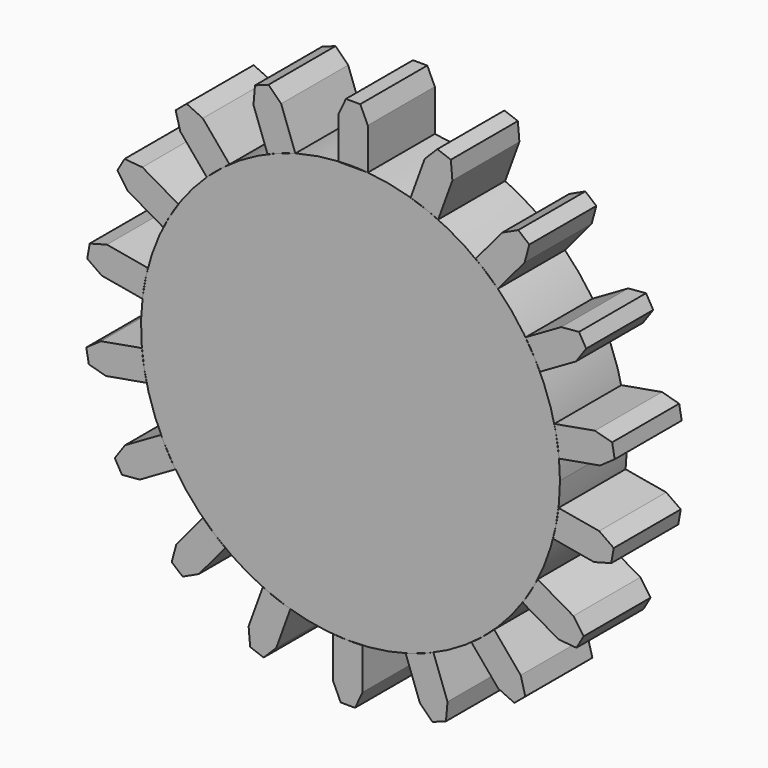
from build123d import *

# Parameters (mm, degrees)
F1_DEPTH = 25.4
F2_SIZE2 = 4.9023428203
F2_SIZE  = 2.286
F3_COUNT = 20
F3_ANGLE = 380


with BuildPart() as f1:
    # F0 (on Front) → F1 (new body)
    with BuildSketch(Plane.XZ):
        with BuildLine():
            ThreePointArc((-3.6768931895, 63.393457521), (-43.581918742, -46.1829661105), (63.5, 0))
            ThreePointArc((63.5, 0), (46.7183838557, 43.0074715591), (5.2435398453, 63.2831359044))
            Line((5.2435398453, 63.2831359044), (-3.6768931895, 63.2831359044))
            Line((-3.6768931895, 63.2831359044), (-3.6768931895, 63.393457521))
        make_face()
    extrude(amount=F1_DEPTH)


with BuildPart() as f1b:
    # F0 (on Front) → F1, piece 2 (new body)
    with BuildSketch(Plane.XZ):
        with BuildLine():
            ThreePointArc((-3.6768931895, 63.393457521), (0.7852631093, 63.4951443958), (5.2435398453, 63.2831359044))
            Line((5.2435398453, 63.2831359044), (5.2435398453, 80.795571208))
            Line((5.2435398453, 80.795571208), (-3.6768931895, 80.795571208))
            Line((-3.6768931895, 80.795571208), (-3.6768931895, 63.393457521))
        make_face()
    extrude(amount=F1_DEPTH)

    # F2
    f2_edges = [f1b.edges().sort_by_distance(p)[0] for p in [
        (5.24354, -12.7, 80.795571),
        (-3.676893, -12.7, 80.795571),
    ]]
    f2_side = f1b.faces().sort_by_distance((0.783323, -12.7, 80.795571))[0]
    chamfer(f2_edges, length=F2_SIZE, length2=F2_SIZE2, reference=f2_side)


with BuildPart() as f3_1:
    # F3: instance of F1b
    add(f1b.part.rotate(Axis((0, 0, 0), (0, 1, 0)), 1 * F3_ANGLE / (F3_COUNT - 1)))


with BuildPart() as f3_2:
    # F3: instance of F1b
    add(f1b.part.rotate(Axis((0, 0, 0), (0, 1, 0)), 2 * F3_ANGLE / (F3_COUNT - 1)))


with BuildPart() as f3_3:
    # F3: instance of F1b
    add(f1b.part.rotate(Axis((0, 0, 0), (0, 1, 0)), 3 * F3_ANGLE / (F3_COUNT - 1)))


with BuildPart() as f3_4:
    # F3: instance of F1b
    add(f1b.part.rotate(Axis((0, 0, 0), (0, 1, 0)), 4 * F3_ANGLE / (F3_COUNT - 1)))


with BuildPart() as f3_5:
    # F3: instance of F1b
    add(f1b.part.rotate(Axis((0, 0, 0), (0, 1, 0)), 5 * F3_ANGLE / (F3_COUNT - 1)))


with BuildPart() as f3_6:
    # F3: instance of F1b
    add(f1b.part.rotate(Axis((0, 0, 0), (0, 1, 0)), 6 * F3_ANGLE / (F3_COUNT - 1)))


with BuildPart() as f3_7:
    # F3: instance of F1b
    add(f1b.part.rotate(Axis((0, 0, 0), (0, 1, 0)), 7 * F3_ANGLE / (F3_COUNT - 1)))


with BuildPart() as f3_8:
    # F3: instance of F1b
    add(f1b.part.rotate(Axis((0, 0, 0), (0, 1, 0)), 8 * F3_ANGLE / (F3_COUNT - 1)))


with BuildPart() as f3_9:
    # F3: instance of F1b
    add(f1b.part.rotate(Axis((0, 0, 0), (0, 1, 0)), 9 * F3_ANGLE / (F3_COUNT - 1)))


with BuildPart() as f3_10:
    # F3: instance of F1b
    add(f1b.part.rotate(Axis((0, 0, 0), (0, 1, 0)), 10 * F3_ANGLE / (F3_COUNT - 1)))


with BuildPart() as f3_11:
    # F3: instance of F1b
    add(f1b.part.rotate(Axis((0, 0, 0), (0, 1, 0)), 11 * F3_ANGLE / (F3_COUNT - 1)))


with BuildPart() as f3_12:
    # F3: instance of F1b
    add(f1b.part.rotate(Axis((0, 0, 0), (0, 1, 0)), 12 * F3_ANGLE / (F3_COUNT - 1)))


with BuildPart() as f3_13:
    # F3: instance of F1b
    add(f1b.part.rotate(Axis((0, 0, 0), (0, 1, 0)), 13 * F3_ANGLE / (F3_COUNT - 1)))


with BuildPart() as f3_14:
    # F3: instance of F1b
    add(f1b.part.rotate(Axis((0, 0, 0), (0, 1, 0)), 14 * F3_ANGLE / (F3_COUNT - 1)))


with BuildPart() as f3_15:
    # F3: instance of F1b
    add(f1b.part.rotate(Axis((0, 0, 0), (0, 1, 0)), 15 * F3_ANGLE / (F3_COUNT - 1)))


with BuildPart() as f3_16:
    # F3: instance of F1b
    add(f1b.part.rotate(Axis((0, 0, 0), (0, 1, 0)), 16 * F3_ANGLE / (F3_COUNT - 1)))


with BuildPart() as f3_17:
    # F3: instance of F1b
    add(f1b.part.rotate(Axis((0, 0, 0), (0, 1, 0)), 17 * F3_ANGLE / (F3_COUNT - 1)))


with BuildPart() as f3_18:
    # F3: instance of F1b
    add(f1b.part.rotate(Axis((0, 0, 0), (0, 1, 0)), 18 * F3_ANGLE / (F3_COUNT - 1)))


with BuildPart() as f3_19:
    # F3: instance of F1b
    add(f1b.part.rotate(Axis((0, 0, 0), (0, 1, 0)), 19 * F3_ANGLE / (F3_COUNT - 1)))


solid = Compound([f1.part, f1b.part, f3_1.part, f3_2.part, f3_3.part, f3_4.part, f3_5.part, f3_6.part, f3_7.part, f3_8.part, f3_9.part, f3_10.part, f3_11.part, f3_12.part, f3_13.part, f3_14.part, f3_15.part, f3_16.part, f3_17.part, f3_18.part, f3_19.part])
